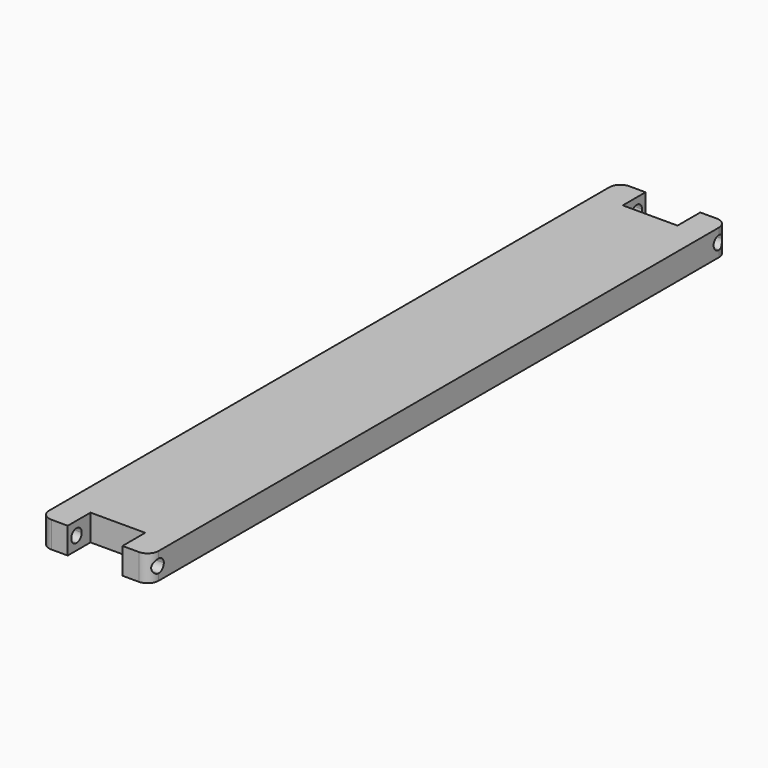
from build123d import *

# Parameters (mm, degrees)
F1_DEPTH = 12
F2_R     = 5
F3_R     = 5
F5_DEPTH = 50.001


with BuildPart() as f1:
    # F0 (on Top) → F1 (new body)
    with BuildSketch(Plane.XY):
        Polygon((-54.5071489434, 162.6097643375), (-67.0071489434, 162.6097643375), (-67.0071489434, -167.3902356625), (-54.5071489434, -167.3902356625), (-54.5071489434, -154.3902356625), (-29.5071489434, -154.3902356625), (-29.5071489434, -167.3902356625), (-17.0071489434, -167.3902356625), (-17.0071489434, 162.6097643375), (-29.5071489434, 162.6097643375), (-29.5071489434, 149.6097643375), (-54.5071489434, 149.6097643375), align=None)
    extrude(amount=F1_DEPTH)

    # F2
    f2_edges = [f1.edges().sort_by_distance(p)[0] for p in [
        (-67.007149, 162.609764, 6),
    ]]
    fillet(f2_edges, radius=F2_R)

    # F3
    f3_edges = [f1.edges().sort_by_distance(p)[0] for p in [
        (-67.007149, -167.390236, 6),
        (-17.007149, -167.390236, 6),
        (-17.007149, 162.609764, 6),
    ]]
    fillet(f3_edges, radius=F3_R)

    # F4 (on face) → F5 (cut, through all)
    with BuildSketch(Plane.YZ.offset(-17.0071489434)):
        with BuildLine():
            Line((157.6097643375, 3), (157.6097643375, 9))
            ThreePointArc((157.6097643375, 9), (154.6097643375, 6), (157.6097643375, 3))
        make_face()
        with BuildLine():
            ThreePointArc((160.6097643375, 6), (159.7310846811, 8.1213203436), (157.6097643375, 9))
            Line((157.6097643375, 9), (157.6097643375, 3))
            ThreePointArc((157.6097643375, 3), (159.7310846811, 3.8786796564), (160.6097643375, 6))
        make_face()
        with BuildLine():
            Line((-162.3902356625, 3), (-162.3902356625, 9))
            ThreePointArc((-162.3902356625, 9), (-165.3902356625, 6), (-162.3902356625, 3))
        make_face()
        with BuildLine():
            ThreePointArc((-162.3902356625, 3), (-160.2689153189, 3.8786796564), (-159.3902356625, 6))
            ThreePointArc((-159.3902356625, 6), (-160.2689153189, 8.1213203436), (-162.3902356625, 9))
            Line((-162.3902356625, 9), (-162.3902356625, 3))
        make_face()
    extrude(amount=-F5_DEPTH, mode=Mode.SUBTRACT)


solid = f1.part
